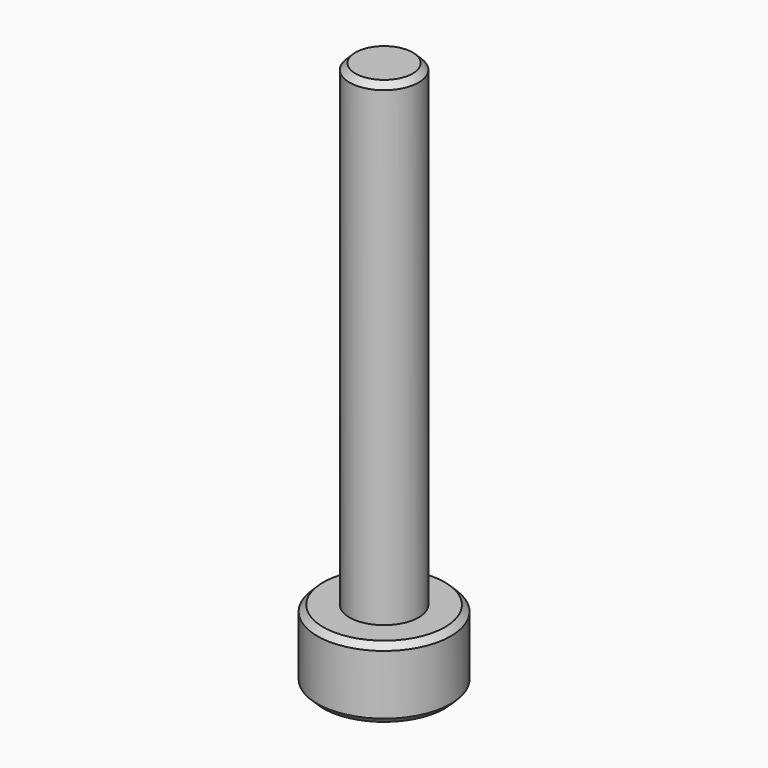
from build123d import *

# Parameters (mm, degrees)
SKETCH_R     = 2.8
PAD_DEPTH    = 3
SKETCH001_R  = 1.45
PAD001_DEPTH = 20
POCKET_DEPTH = 2
CHAMFER_SIZE = 0.25


with BuildPart() as part:
    # Sketch → Pad (new body)
    with BuildSketch(Plane.XY):
        Circle(SKETCH_R)
    extrude(amount=PAD_DEPTH)

    # Sketch001 (on Face3 of Pad) → Pad001 (join)
    with BuildSketch(Plane.XY.offset(3)):
        Circle(SKETCH001_R)
    extrude(amount=PAD001_DEPTH)

    # Sketch002 (on Face2 of Pad001) → Pocket (cut)
    with BuildSketch(Plane(origin=(0, 0, 0), x_dir=(1, 0, 0), z_dir=(0, 0, -1))):
        Polygon((1.259542, 0.814588), (-0.075682, 1.49809), (-1.335225, 0.683502), (-1.259542, -0.814588), (0.075682, -1.49809), (1.335225, -0.683502), align=None)
    extrude(amount=-POCKET_DEPTH, mode=Mode.SUBTRACT)

    # Chamfer
    chamfer_edges = [part.edges().sort_by_distance(p)[0] for p in [
        (-2.8, 0, 3),
        (-2.8, 0, 0),
        (1.297384, -0.065543, 0),
        (0.705454, 1.090796, 0),
        (-0.59193, 1.156339, 0),
        (-1.297384, 0.065543, 0),
        (-0.705454, -1.090796, 0),
        (0.59193, -1.156339, 0),
        (-1.45, 0, 23),
    ]]
    chamfer(chamfer_edges, length=CHAMFER_SIZE)


solid = part.part
